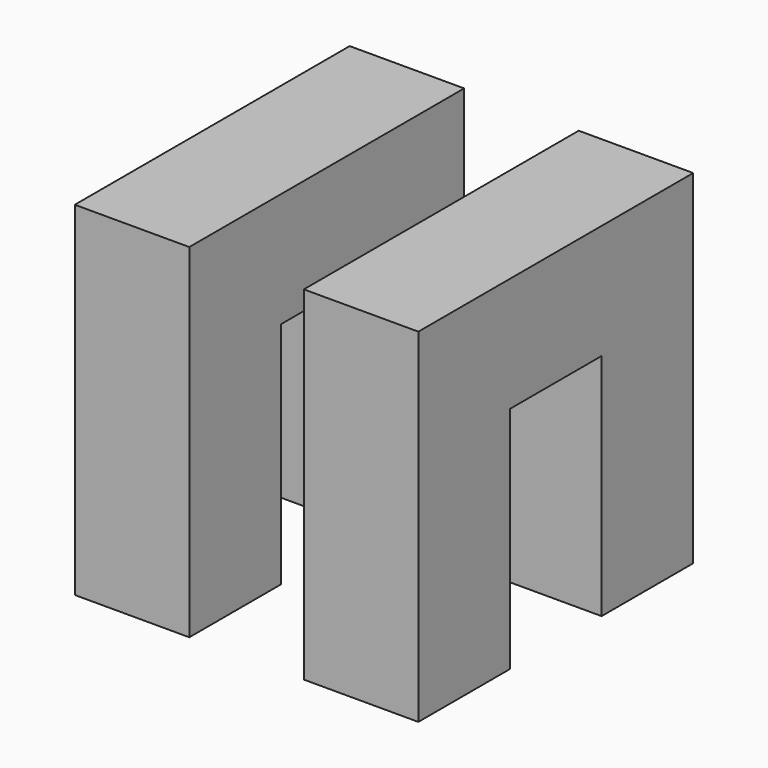
from build123d import *

# Parameters (mm, degrees)
F0_W      = 6.35
F0_H      = 6.35
F1_DEPTH  = 19.05
F2_W      = 6.35
F2_H      = 6.35
F3_DEPTH  = 19.05
F4_W      = 6.35
F4_H      = 6.35
F5_DEPTH  = 19.05
F6_W      = 6.35
F6_H      = 6.35
F7_DEPTH  = 19.05
F8_W      = 6.35
F8_H      = 6.35
F9_DEPTH  = 19.05
F10_W     = 6.35
F10_H     = 6.35
F11_DEPTH = 19.05
F12_W     = 6.35
F12_H     = 6.35
F13_DEPTH = 19.05


with BuildPart() as f1:
    # F0 (on Top) → F1 (new body)
    with BuildSketch(Plane.XY):
        with Locations((3.175, 3.175)):
            Rectangle(F0_W, F0_H)
    extrude(amount=F1_DEPTH)

    # F2 (on face) → F3 (join)
    with BuildSketch(Plane.XZ):
        with Locations((3.175, 15.875)):
            Rectangle(F2_W, F2_H)
    extrude(amount=-F3_DEPTH)

    # F4 (on face) → F5 (join)
    with BuildSketch(Plane.XY.offset(19.05)):
        with Locations((3.175, 15.875)):
            Rectangle(F4_W, F4_H)
    extrude(amount=-F5_DEPTH)

    # F6 (on face) → F7 (join)
    with BuildSketch(Plane(origin=(0, 0, 0), x_dir=(0, -1, 0), z_dir=(-1, 0, 0))):
        with Locations((-15.875, 3.175)):
            Rectangle(F6_W, F6_H)
    extrude(amount=-F7_DEPTH)

    # F8 (on face) → F9 (join)
    with BuildSketch(Plane(origin=(0, 0, 0), x_dir=(1, 0, 0), z_dir=(0, 0, -1))):
        with Locations((15.875, -15.875)):
            Rectangle(F8_W, F8_H)
    extrude(amount=-F9_DEPTH)

    # F10 (on face) → F11 (join)
    with BuildSketch(Plane(origin=(0, 19.05, 0), x_dir=(-1, 0, 0), z_dir=(0, 1, 0))):
        with Locations((-15.875, 15.875)):
            Rectangle(F10_W, F10_H)
    extrude(amount=-F11_DEPTH)

    # F12 (on face) → F13 (join)
    with BuildSketch(Plane.XY.offset(19.05)):
        with Locations((15.875, 3.175)):
            Rectangle(F12_W, F12_H)
    extrude(amount=-F13_DEPTH)


solid = f1.part
